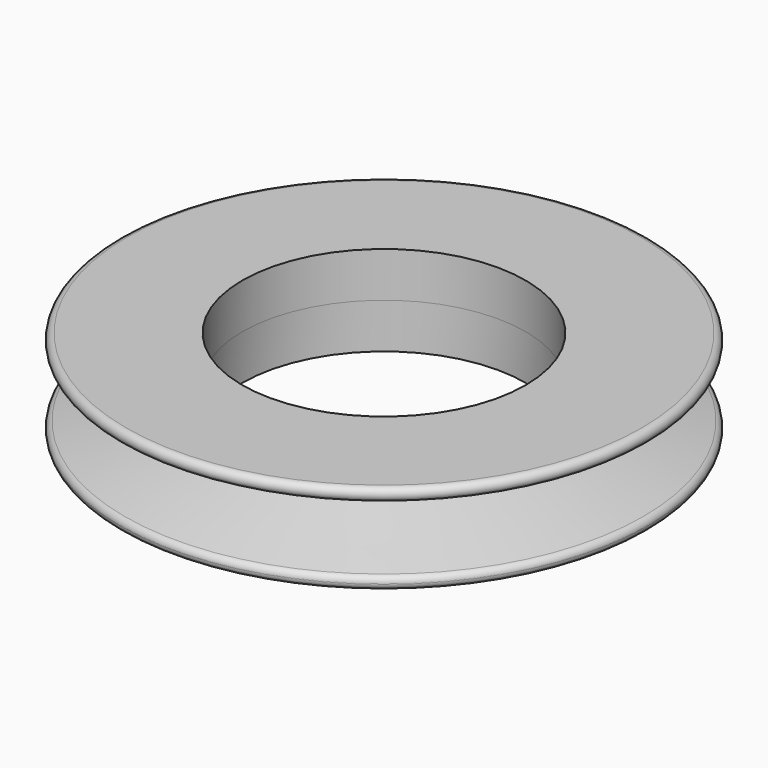
from build123d import *


with BuildPart() as body:
    # Sketch002 → Revolution (revolve)
    with BuildSketch(Plane.XZ):
        with BuildLine():
            Line((-11, 7), (-11, 0))
            Line((-20.000243, 0), (-11, 0))
            ThreePointArc((-20.109125, 0.987946), (-20.496991, 0.445226), (-20.000243, 0))
            Line((-20.109125, 0.987946), (-13.303362, 2.51))
            ThreePointArc((-13.303362, 2.51), (-12.5, 3.51), (-13.303362, 4.51))
            Line((-13.303362, 4.51), (-20.107758, 6.01175))
            ThreePointArc((-20, 7), (-20.497054, 6.554198), (-20.107758, 6.01175))
            Line((-20, 7), (-11, 7))
        make_face()
    revolve(axis=Axis((0, 0, 0), (0, 0, 1)))


with BuildPart() as body001:
    # Sketch003 → Revolution001 (revolve)
    with BuildSketch(Plane.XZ):
        with BuildLine():
            Line((-11, 3.5), (-11, 0.004175))
            Line((-20.000243, 0.004175), (-11, 0.004175))
            ThreePointArc((-20.12532, 0.988406), (-20.496104, 0.441224), (-20.000243, 0.004175))
            Line((-20.12532, 0.988406), (-13.23281, 2.772547))
            ThreePointArc((-13.23281, 2.772547), (-12.768001, 3.037145), (-12.5, 3.5))
            Line((-12.5, 3.5), (-11, 3.5))
        make_face()
    revolve(axis=Axis((0, 0, 0), (0, 0, 1)))


solid = Compound([body.part, body001.part])
